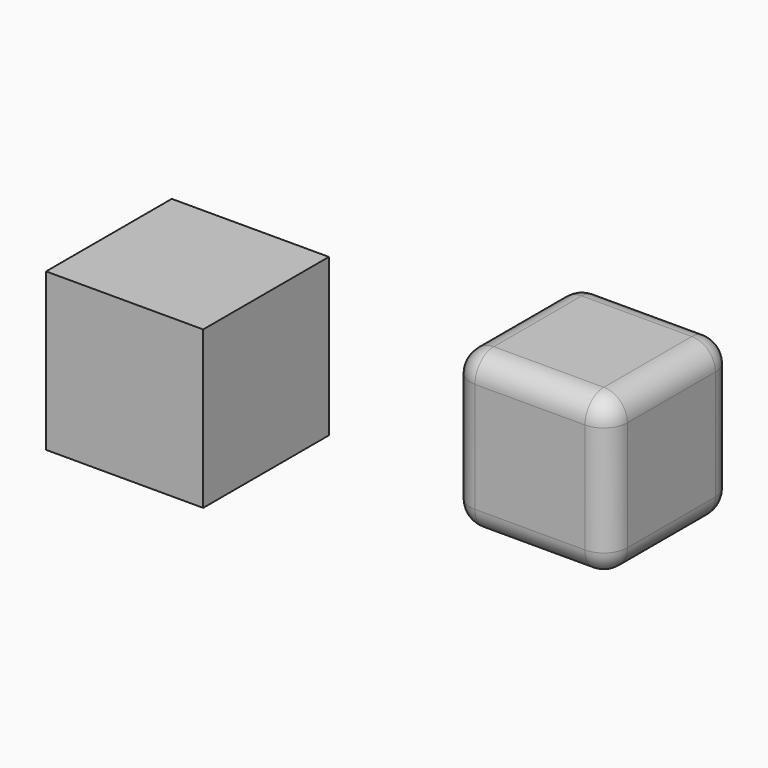
from build123d import *

# Parameters (mm, degrees)
F0_W     = 100
F0_H     = 100
F1_DEPTH = 100
F2_R     = 15
F3_W     = 100
F3_H     = 100
F4_DEPTH = 100


with BuildPart() as f1:
    # F0 (on Front) → F1 (new body)
    with BuildSketch(Plane.XZ):
        with Locations((50, 50)):
            Rectangle(F0_W, F0_H)
    extrude(amount=F1_DEPTH)

    # F2
    f2_edges = [f1.edges().sort_by_distance(p)[0] for p in [
        (100, -50, 100),
        (0, -50, 100),
        (50, 0, 100),
        (50, -100, 100),
        (100, -100, 50),
        (100, 0, 50),
        (0, -100, 50),
        (0, 0, 50),
        (0, -50, 0),
        (100, -50, 0),
        (50, 0, 0),
        (50, -100, 0),
    ]]
    fillet(f2_edges, radius=F2_R)


with BuildPart() as f4:
    # F3 (on Front) → F4 (new body)
    with BuildSketch(Plane.XZ):
        with Locations((-207.970214, 9.518399)):
            Rectangle(F3_W, F3_H)
    extrude(amount=F4_DEPTH)


solid = Compound([f1.part, f4.part])
